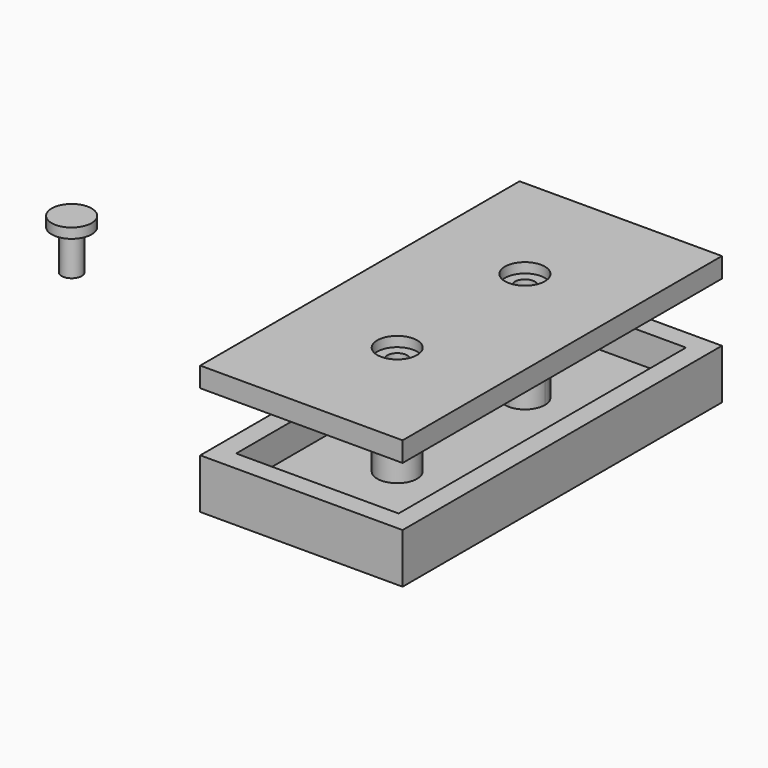
from build123d import *

# Parameters (mm, degrees)
F0_W      = 2.54
F0_H      = 3.81
F1_DEPTH  = 25.4
F2_W      = 25.751915136
F2_H      = 2.54
F3_DEPTH  = 6.35
F4_R      = 2.54
F4_R_2    = 1.2700000079
F5_DEPTH  = 6.35
F6_W      = 50.8
F6_H      = 2.54
F7_DEPTH  = 12.8778
F8_R      = 2.54
F8_R_2    = 1.2700000079
F9_DEPTH  = 1.27
F10_DEPTH = 25.4
F11_R     = 2.54
F11_R_2   = 1.2700036168
F12_DEPTH = 1.27
F13_DEPTH = 6.35


with BuildPart() as f1:
    # F0 (on Front) → F1 (new body, symmetric)
    with BuildSketch(Plane.XZ):
        Polygon((-10.335957568, 2.54), (-12.875957568, 2.54), (-12.875957568, 0), (12.875957568, 0), (12.875957568, 2.54), (10.335957568, 2.54), align=None)
        with Locations((-11.605957568, 4.445)):
            Rectangle(F0_W, F0_H)
        with Locations((11.605957568, 4.445)):
            Rectangle(F0_W, F0_H)
    extrude(amount=F1_DEPTH, both=True)

    # F2 (on Top) → F3 (join)
    with BuildSketch(Plane.XY):
        with Locations((0, -24.13)):
            Rectangle(F2_W, F2_H)
        with Locations((0, 24.13)):
            Rectangle(F2_W, F2_H)
    extrude(amount=F3_DEPTH)

    # F4 (on Top) → F5 (join)
    with BuildSketch(Plane.XY):
        with Locations((0, -10.16)):
            Circle(F4_R)
        with Locations((0, -10.16)):
            Circle(F4_R_2, mode=Mode.SUBTRACT)
        with BuildLine():
            ThreePointArc((2.54, 10.16), (-1.7960512242, 11.9560512242), (0, 7.62))
            ThreePointArc((0, 7.62), (1.7960512242, 8.3639487758), (2.54, 10.16))
        make_face()
        with BuildLine():
            ThreePointArc((1.2700000079, 10.16), (0.8980256177, 9.2619743823), (0, 8.8899999921))
            ThreePointArc((0, 8.8899999921), (-0.8980256177, 11.0580256177), (1.2700000079, 10.16))
        make_face(mode=Mode.SUBTRACT)
    extrude(amount=F5_DEPTH)


with BuildPart() as f7:
    # F6 (on Right) → F7 (new body, symmetric)
    with BuildSketch(Plane.YZ):
        with Locations((0, 15.1352581558)):
            Rectangle(F6_W, F6_H)
    extrude(amount=F7_DEPTH, both=True)

    # F8 (on face) → F9 (cut)
    with BuildSketch(Plane.XY.offset(16.4052581558)):
        with Locations((0, -10.16)):
            Circle(F8_R)
        with Locations((0, -10.16)):
            Circle(F8_R_2, mode=Mode.SUBTRACT)
        with Locations((0, 10.16)):
            Circle(F8_R)
        with Locations((0, 10.16)):
            Circle(F8_R_2, mode=Mode.SUBTRACT)
    extrude(amount=-F9_DEPTH, mode=Mode.SUBTRACT)

    # F10 (cut): faces of the model
    f10_faces = [f7.faces().sort_by_distance(p)[0] for p in [
        (0, -10.16, 16.4052581558),
        (0, 10.16, 16.4052581558),
    ]]
    extrude(f10_faces, amount=-F10_DEPTH, mode=Mode.SUBTRACT)


with BuildPart() as f12:
    # F11 (on Top) → F12 (new body)
    with BuildSketch(Plane.XY):
        with Locations((-62.6882463694, 16.4052583277)):
            Circle(F11_R)
        with Locations((-62.6882463694, 16.4052583277)):
            Circle(F11_R_2, mode=Mode.SUBTRACT)
    extrude(amount=-F12_DEPTH)

    # F11 (on Top) → F13 (join)
    with BuildSketch(Plane.XY):
        with Locations((-62.6882463694, 16.4052583277)):
            Circle(F11_R_2)
    extrude(amount=-F13_DEPTH)


solid = Compound([f1.part, f7.part, f12.part])
